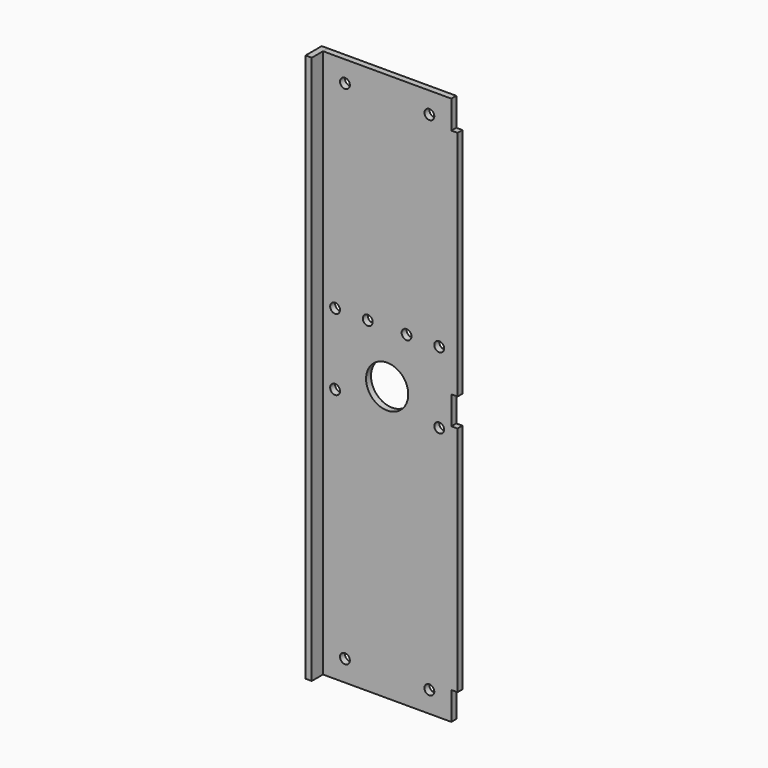
from build123d import *

# Parameters (mm, degrees)
F1_R     = 3.5
F2_DEPTH = 4.4
F4_DEPTH = 4.4


with BuildPart() as f2:
    # F1 (on Front) → F2 (new body)
    with BuildSketch(Plane.XZ):
        Polygon((-45.6, 0), (0, 0), (45.6, 0), (45.6, 20), (50, 20), (50, 185), (45.6, 185), (45.6, 205), (50, 205), (50, 370), (45.6, 370), (45.6, 390), (0, 390), (-45.6, 390), (-45.6, 370), (-50, 370), (-50, 205), (-45.6, 205), (-45.6, 185), (-50, 185), (-50, 20), (-45.6, 20), align=None)
        with Locations((-30, 15)):
            Circle(F1_R, mode=Mode.SUBTRACT)
        with Locations((-37, 181.2)):
            Circle(F1_R, mode=Mode.SUBTRACT)
        with Locations((30, 15)):
            Circle(F1_R, mode=Mode.SUBTRACT)
        with Locations((37, 181.2)):
            Circle(F1_R, mode=Mode.SUBTRACT)
        with Locations((-37, 232)):
            Circle(F1_R, mode=Mode.SUBTRACT)
        with Locations((-13.8, 232)):
            Circle(F1_R, mode=Mode.SUBTRACT)
        with Locations((-30, 375)):
            Circle(F1_R, mode=Mode.SUBTRACT)
        with BuildLine():
            ThreePointArc((15, 195), (10.6066017178, 184.3933982822), (0, 180))
            ThreePointArc((0, 180), (-10.6066017178, 205.6066017178), (15, 195))
        make_face(mode=Mode.SUBTRACT)
        with Locations((13.8, 232)):
            Circle(F1_R, mode=Mode.SUBTRACT)
        with Locations((37, 232)):
            Circle(F1_R, mode=Mode.SUBTRACT)
        with Locations((30, 375)):
            Circle(F1_R, mode=Mode.SUBTRACT)
    extrude(amount=-F2_DEPTH)


with BuildPart() as f4:
    # F3 (on face) → F4 (new body)
    with BuildSketch(Plane(origin=(-50, 0, 0), x_dir=(0, -1, 0), z_dir=(-1, 0, 0))):
        Polygon((-4.4, 390), (-4.4, 370), (0, 370), (0, 205), (-4.4, 205), (-4.4, 185), (0, 185), (0, 20), (-4.4, 20), (-4.4, 0), (0, 0), (10, 0), (10, 390), align=None)
    extrude(amount=-F4_DEPTH)


solid = Compound([f2.part, f4.part])
